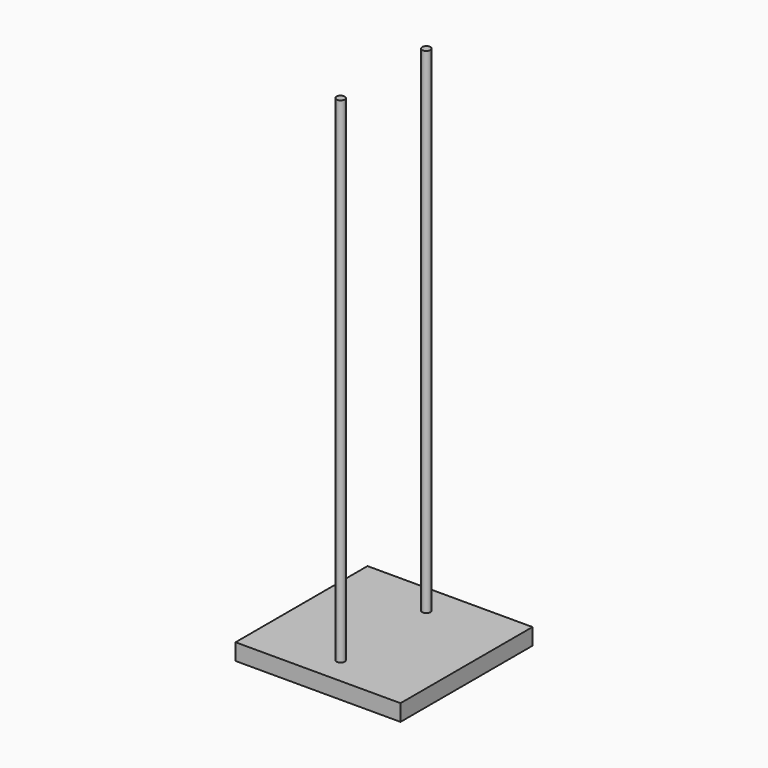
from build123d import *

# Parameters (mm, degrees)
F0_W     = 254
F0_H     = 254
F1_DEPTH = 12.7
F2_R     = 6.35
F3_DEPTH = 762


with BuildPart() as f1:
    # F0 (on Top) → F1 (new body, symmetric)
    with BuildSketch(Plane.XY):
        with Locations((-0.775121, 2.032998)):
            Rectangle(F0_W, F0_H)
    extrude(amount=F1_DEPTH, both=True)

    # F2 (on face) → F3 (join)
    with BuildSketch(Plane.XY.offset(12.7)):
        with Locations((0, -82.55)):
            Circle(F2_R)
        with Locations((0, 82.55)):
            Circle(F2_R)
    extrude(amount=F3_DEPTH)


solid = f1.part
